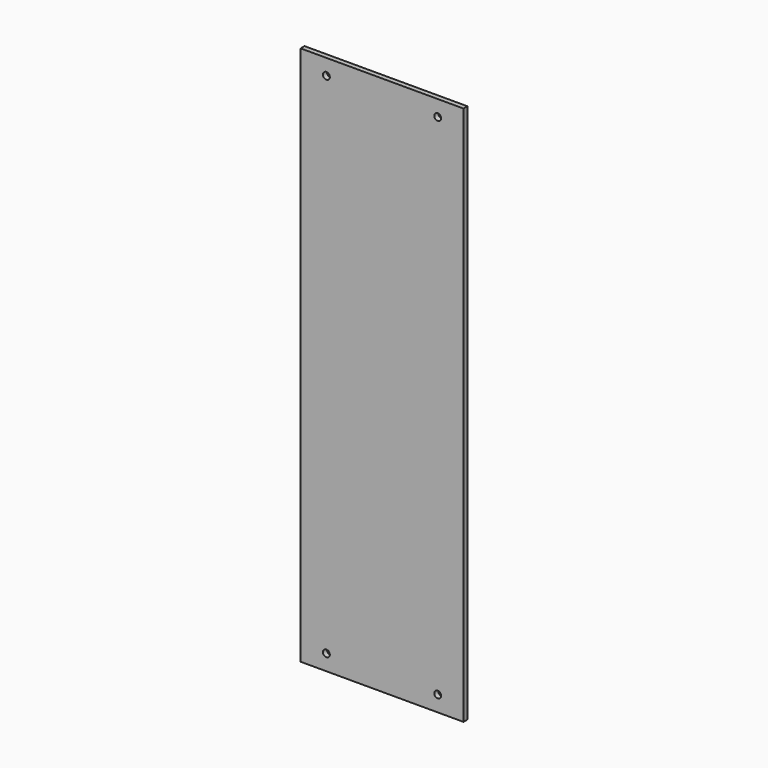
from build123d import *

# Parameters (mm, degrees)
SKETCH020_W  = 52.1
SKETCH020_H  = 172.7
SKETCH020_R  = 1.1
PAD007_DEPTH = 1.57


with BuildPart() as part:
    # Sketch020 → Pad007 (new body)
    with BuildSketch(Plane.XZ):
        with Locations((26.05, 86.35)):
            Rectangle(SKETCH020_W, SKETCH020_H)
        with Locations((8.25, 167.65)):
            Circle(SKETCH020_R, mode=Mode.SUBTRACT)
        with Locations((43.85, 167.65)):
            Circle(SKETCH020_R, mode=Mode.SUBTRACT)
        with Locations((43.85, 5.05)):
            Circle(SKETCH020_R, mode=Mode.SUBTRACT)
        with Locations((8.25, 5.05)):
            Circle(SKETCH020_R, mode=Mode.SUBTRACT)
    extrude(amount=PAD007_DEPTH)


solid = part.part
